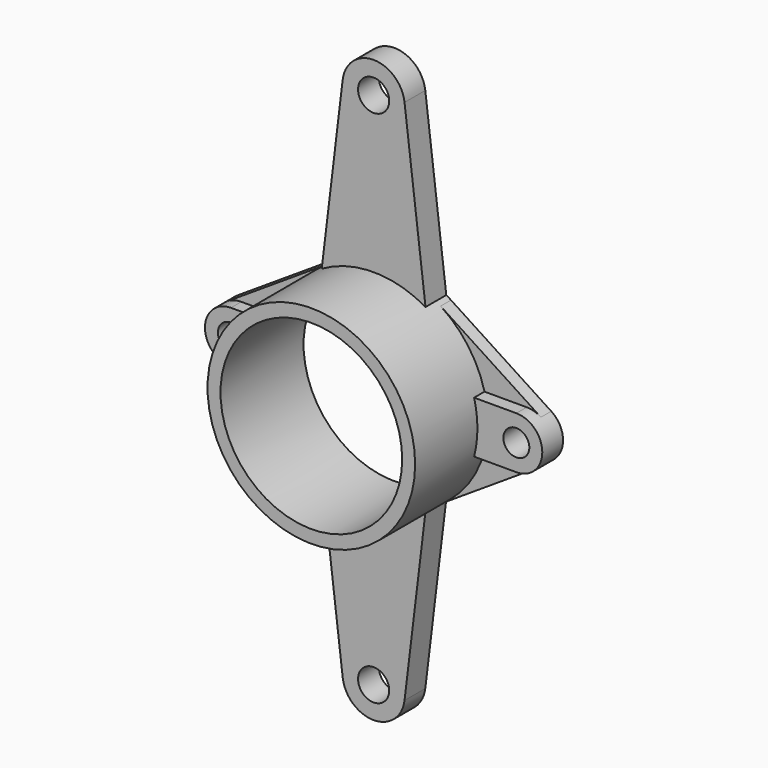
from build123d import *

# Parameters (mm, degrees)
F0_R      = 1016
F1_DEPTH  = 1016
F3_DEPTH  = 254
F4_R      = 152.4
F5_DEPTH  = 254.001
F7_R      = 127
F8_DEPTH  = 254
F10_DEPTH = 127
F11_R     = 127
F12_DEPTH = 127.001
F14_R     = 889
F15_DEPTH = 1016.001


with BuildPart() as f1:
    # F0 (on Front) → F1 (new body)
    with BuildSketch(Plane.XZ):
        Circle(F0_R)
    extrude(amount=F1_DEPTH)

    # F2 (on Front) → F3 (join)
    with BuildSketch(Plane.XZ):
        with BuildLine():
            Line((508, 879.88181), (302.590737, 2576.631762))
            ThreePointArc((302.590737, 2576.631762), (0, 2844.8), (-302.590737, 2576.631762))
            Line((-302.590737, 2576.631762), (-508, 879.88181))
            Line((-508, 879.88181), (508, 879.88181))
        make_face()
    extrude(amount=F3_DEPTH)

    # F4 (on face) → F5 (cut, through all)
    with BuildSketch(Plane.XZ.offset(254)):
        with Locations((0, 2540)):
            Circle(F4_R)
    extrude(amount=-F5_DEPTH, mode=Mode.SUBTRACT)

    # F6: F1 across plane


with BuildPart() as f1_1:
    add(f1.part)
    add(f1.part.mirror(Plane.XY))

    # F7 (on Front) → F8 (join)
    with BuildSketch(Plane.XZ):
        with BuildLine():
            Line((983.73777, -254), (1397, -254))
            ThreePointArc((1397, -254), (1651, 0), (1397, 254))
            Line((1397, 254), (983.73777, 254))
            Line((983.73777, 254), (983.73777, -254))
        make_face()
        with Locations((1397, 0)):
            Circle(F7_R, mode=Mode.SUBTRACT)
    extrude(amount=F8_DEPTH)

    # F9 (on Front) → F10 (join)
    with BuildSketch(Plane.XZ):
        Polygon((1535.545455, 212.887663), (554.181818, 851.550652), (554.181818, -851.550652), (1535.545455, -212.887663), align=None)
    extrude(amount=F10_DEPTH)

    # F11 (on face) → F12 (cut, through all)
    with BuildSketch(Plane.XZ.offset(127)):
        with Locations((1397, 0)):
            Circle(F11_R)
    extrude(amount=-F12_DEPTH, mode=Mode.SUBTRACT)

    # F13: F1 across plane


with BuildPart() as f1_2:
    add(f1_1.part)
    add(f1_1.part.mirror(Plane.YZ))

    # F14 (on face) → F15 (cut, through all)
    with BuildSketch(Plane.XZ.offset(1016)):
        Circle(F14_R)
    extrude(amount=-F15_DEPTH, mode=Mode.SUBTRACT)


solid = f1_2.part
